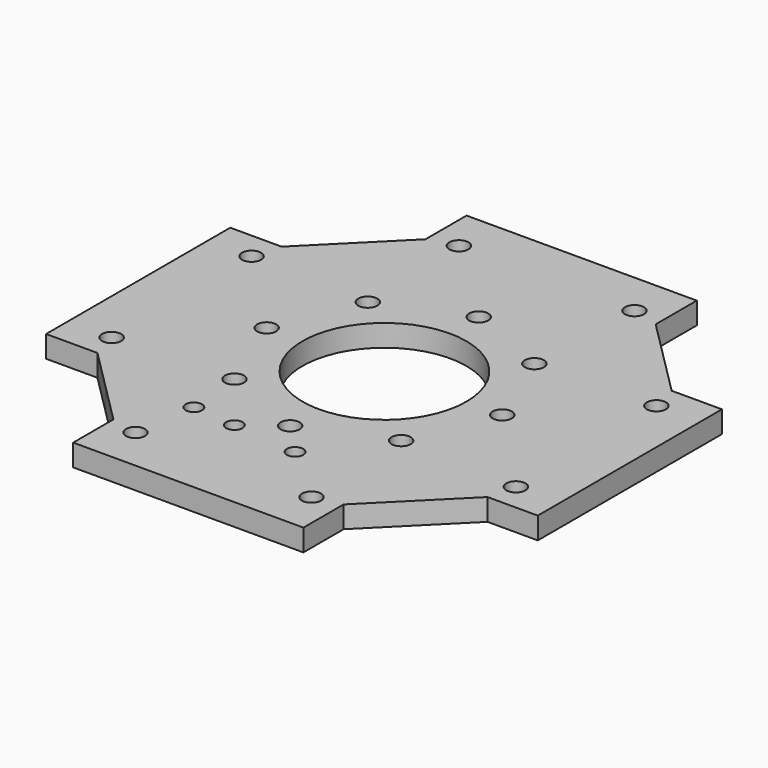
from build123d import *

# Parameters (mm, degrees)
F0_R     = 1.75
F0_R_2   = 1.5
F0_R_3   = 15
F1_DEPTH = 4


with BuildPart() as f1:
    # F0 (on Top) → F1 (new body)
    with BuildSketch(Plane.XY):
        Polygon((24.030833, 9.200505), (24.030833, 0), (36.030833, 0), (54.167918, 0), (66.167918, 0), (66.167918, 9.200505), (80.800863, 23.830714), (90, 23.830714), (90, 35.830714), (90, 53.967799), (90, 65.967799), (80.800863, 65.967799), (73.484391, 73.284271), (66.167918, 80.600744), (66.167918, 90), (54.167918, 90), (36.030833, 90), (24.030833, 90), (24.030833, 80.600744), (9.400625, 65.967799), (0, 65.967799), (0, 53.967799), (0, 35.830714), (0, 23.830714), (9.400625, 23.830714), (16.715729, 16.515609), align=None)
        with Locations((29.030833, 8)):
            Circle(F0_R, mode=Mode.SUBTRACT)
        with Locations((8, 28.830714)):
            Circle(F0_R, mode=Mode.SUBTRACT)
        with Locations((38.636175, 18.607672)):
            Circle(F0_R_2, mode=Mode.SUBTRACT)
        with Locations((30.666618, 19.304918)):
            Circle(F0_R_2, mode=Mode.SUBTRACT)
        with Locations((45, 23.433243)):
            Circle(F0_R, mode=Mode.SUBTRACT)
        with Locations((23.433243, 45)):
            Circle(F0_R, mode=Mode.SUBTRACT)
        with Locations((29.75, 29.75)):
            Circle(F0_R, mode=Mode.SUBTRACT)
        with Locations((45, 45)):
            Circle(F0_R_3, mode=Mode.SUBTRACT)
        with Locations((61.167918, 8.100744)):
            Circle(F0_R, mode=Mode.SUBTRACT)
        with Locations((50.590512, 17.561803)):
            Circle(F0_R_2, mode=Mode.SUBTRACT)
        with Locations((82, 28.830714)):
            Circle(F0_R, mode=Mode.SUBTRACT)
        with Locations((60.25, 29.75)):
            Circle(F0_R, mode=Mode.SUBTRACT)
        with Locations((66.566757, 45)):
            Circle(F0_R, mode=Mode.SUBTRACT)
        with Locations((7.900625, 60.967799)):
            Circle(F0_R, mode=Mode.SUBTRACT)
        with Locations((29.75, 60.25)):
            Circle(F0_R, mode=Mode.SUBTRACT)
        with Locations((45, 66.566757)):
            Circle(F0_R, mode=Mode.SUBTRACT)
        with Locations((29.030833, 82)):
            Circle(F0_R, mode=Mode.SUBTRACT)
        with Locations((60.25, 60.25)):
            Circle(F0_R, mode=Mode.SUBTRACT)
        with Locations((82, 60.967799)):
            Circle(F0_R, mode=Mode.SUBTRACT)
        with Locations((61.167918, 82)):
            Circle(F0_R, mode=Mode.SUBTRACT)
    extrude(amount=F1_DEPTH)


solid = f1.part
